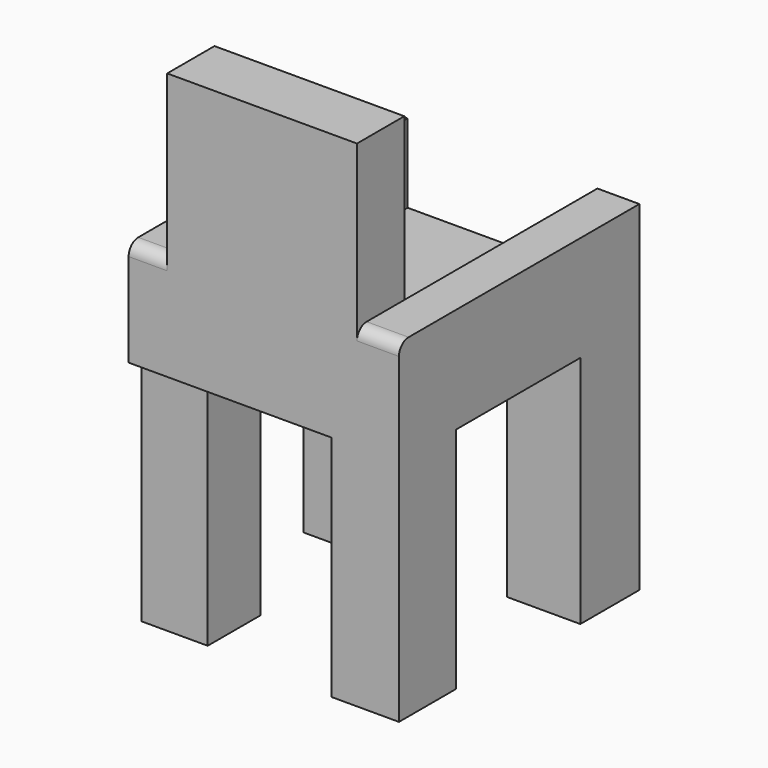
from build123d import *

# Parameters (mm, degrees)
F1_DEPTH  = 127
F2_W      = 80.2252367139
F2_H      = 66.4800778031
F3_DEPTH  = 127
F4_W      = 17.7462361753
F4_H      = 33.2400389016
F4_W_2    = 16.2856578827
F5_DEPTH  = 152.4
F6_W      = 80.2252367139
F6_H      = 25.0078588724
F7_DEPTH  = 101.6
F8_W      = 27.9699675739
F8_H      = 27.9699731618
F9_DEPTH  = 152.4
F10_DEPTH = 50.8
F11_DEPTH = 106.68
F12_W     = 28.4161847085
F12_H     = 30.0192423165
F13_DEPTH = 96.52
F14_W     = 30.9016443789
F14_H     = 31.186911881
F15_DEPTH = 99.06
F16_W     = 31.6377300769
F16_H     = 35.1597964764
F17_DEPTH = 99.06
F18_R     = 5.08
F19_R     = 5.08


with BuildPart() as f1:
    # F0 (on Front) → F1 (new body)
    with BuildSketch(Plane.XZ):
        Polygon((41.0551093519, 40.1177741587), (-64.293846488, 40.1177741587), (-64.293846488, -37.670340389), (49.9632842839, -37.670340389), (49.9632842839, 40.1177741587), align=None)
    extrude(amount=-F1_DEPTH)

    # F2 (on face) → F3 (cut)
    with BuildSketch(Plane(origin=(0, 127, 0), x_dir=(-1, 0, 0), z_dir=(0, 1, 0))):
        with Locations((7.8955702484, 6.8777352571)):
            Rectangle(F2_W, F2_H)
    extrude(amount=-F3_DEPTH, mode=Mode.SUBTRACT)

    # F4 (on face) → F5 (cut)
    with BuildSketch(Plane(origin=(0, 127, 0), x_dir=(-1, 0, 0), z_dir=(0, 1, 0))):
        with Locations((-41.0901661962, 23.4977547079)):
            Rectangle(F4_W, F4_H)
        with Locations((56.1510175467, 23.4977547079)):
            Rectangle(F4_W_2, F4_H)
    extrude(amount=-F5_DEPTH, mode=Mode.SUBTRACT)

    # F6 (on face) → F7 (join)
    with BuildSketch(Plane.XY.offset(-26.3623036444)):
        with Locations((-7.8955702484, 12.5039294362)):
            Rectangle(F6_W, F6_H)
    extrude(amount=F7_DEPTH)

    # F8 (on face) → F9 (join)
    with BuildSketch(Plane(origin=(0, 0, -37.670340389), x_dir=(1, 0, 0), z_dir=(0, 0, -1))):
        with Locations((-47.3000053316, -17.0427551493)):
            Rectangle(F8_W, F8_H)
    extrude(amount=F9_DEPTH)

    # F10 (add): a face of the model
    f10_faces = [f1.faces().sort_by_distance(p)[0] for p in [
        (-47.3000053316, 17.0427551493, -190.070340389),
    ]]
    extrude(f10_faces, amount=F10_DEPTH)

    # F11 (cut): a face of the model
    f11_faces = [f1.faces().sort_by_distance(p)[0] for p in [
        (-47.3000053316, 17.0427551493, -240.870340389),
    ]]
    extrude(f11_faces, amount=-F11_DEPTH, mode=Mode.SUBTRACT)

    # F12 (on face) → F13 (join)
    with BuildSketch(Plane(origin=(0, 0, -37.670340389), x_dir=(1, 0, 0), z_dir=(0, 0, -1))):
        with Locations((35.7551919296, -15.0096211582)):
            Rectangle(F12_W, F12_H)
    extrude(amount=F13_DEPTH)

    # F14 (on face) → F15 (join)
    with BuildSketch(Plane(origin=(0, 0, -37.670340389), x_dir=(1, 0, 0), z_dir=(0, 0, -1))):
        with Locations((34.5124620944, -111.4065440595)):
            Rectangle(F14_W, F14_H)
    extrude(amount=F15_DEPTH)

    # F16 (on face) → F17 (join)
    with BuildSketch(Plane(origin=(0, 0, -37.670340389), x_dir=(1, 0, 0), z_dir=(0, 0, -1))):
        with Locations((-46.5169167146, -107.4508428574)):
            Rectangle(F16_W, F16_H)
    extrude(amount=F17_DEPTH)

    # F18
    f18_edges = [f1.edges().sort_by_distance(p)[0] for p in [
        (-56.151018, 0, 6.877735),
    ]]
    fillet(f18_edges, radius=F18_R)

    # F19
    f19_edges = [f1.edges().sort_by_distance(p)[0] for p in [
        (41.090166, 0, 6.877735),
    ]]
    fillet(f19_edges, radius=F19_R)


solid = f1.part
